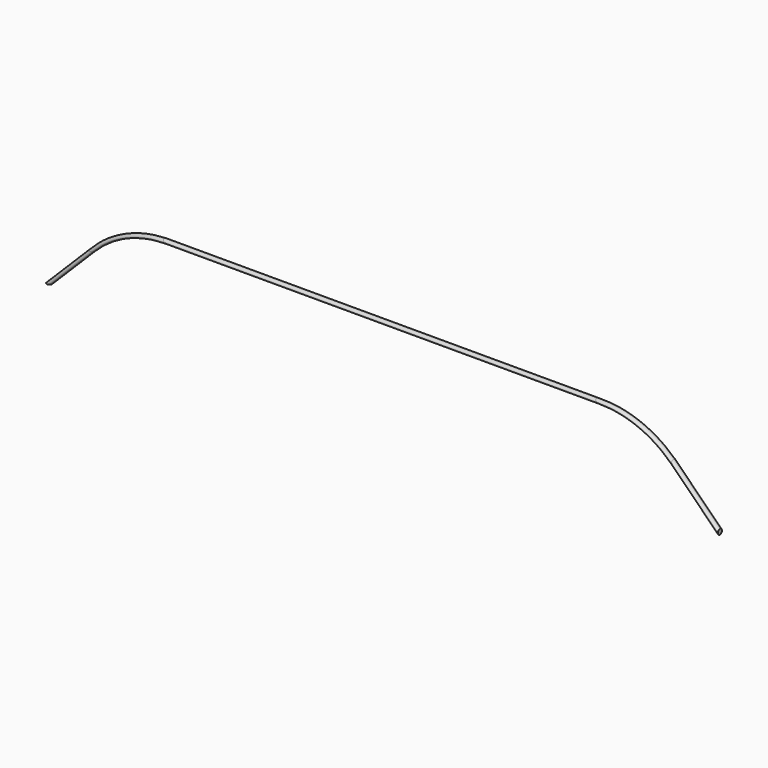
from build123d import *

# Parameters (mm, degrees)
F0_R = 2.5


with BuildPart() as f2:
    # F2: sweep along a path in F1
    with BuildLine(Plane.XZ) as f2_path:
        Line((0, 0), (41.421356, 41.421356))
        ThreePointArc((41.421356, 41.421356), (73.863691, 63.098631), (112.132034, 70.710678))
        Line((112.132034, 70.710678), (529.289322, 70.710678))
        ThreePointArc((529.289322, 70.710678), (567.557665, 63.098631), (600, 41.421356))
        Line((600, 41.421356), (644.680696, -3.25934))
    # F0 (on Top) → F2 (sweep)
    with BuildSketch(Plane.XY):
        with Locations((-2.5, 0)):
            Circle(F0_R)
    sweep(path=f2_path.line)


solid = f2.part
